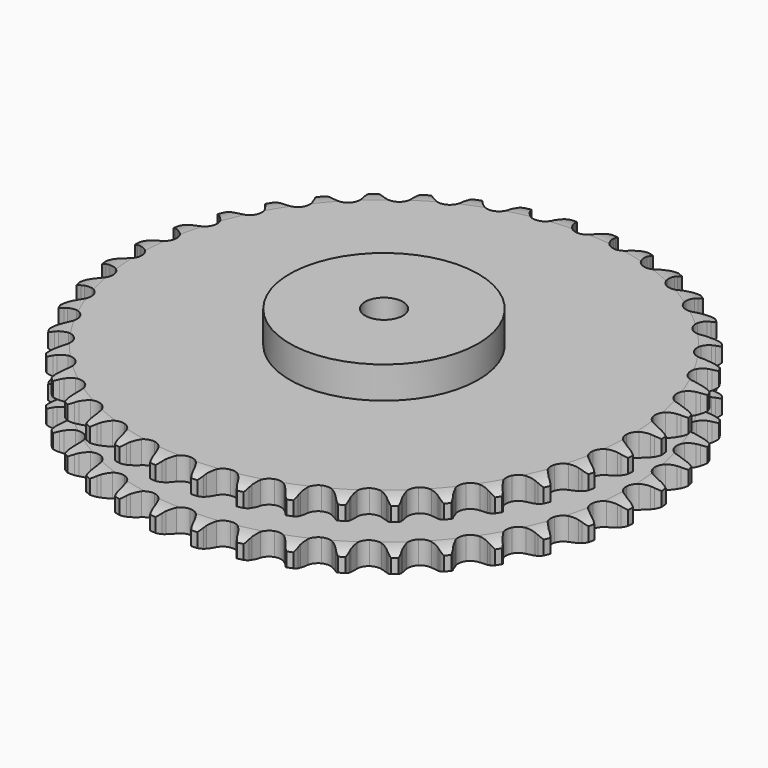
from build123d import *

# Parameters (mm, degrees)
PAD_DEPTH         = 54.6
SKETCH001_R       = 75
PAD001_DEPTH      = 80
SKETCH002_R       = 15
POCKET_DEPTH      = 0.001
POCKET_DEPTH_BACK = 80.001


with BuildPart() as part:
    # Sprocket → Pad (new body)
    with BuildSketch(Plane.XY):
        with BuildLine():
            ThreePointArc((-16.695089, 212.131225), (-13.928922, 209.128558), (-12.044786, 205.506719))
            Line((-12.044786, 205.506719), (-11.116063, 202.941151))
            ThreePointArc((-11.116063, 202.941151), (-9.650251, 199.656601), (-7.725647, 196.618052))
            ThreePointArc((-7.725647, 196.618052), (-4.325772, 193.752556), (0, 192.724006))
            ThreePointArc((0, 192.724006), (4.325772, 193.752556), (7.725647, 196.618052))
            ThreePointArc((7.725647, 196.618052), (9.650251, 199.656601), (11.116063, 202.941151))
            Line((11.116063, 202.941151), (12.044786, 205.506719))
            ThreePointArc((12.044786, 205.506719), (13.928922, 209.128558), (16.695089, 212.131225))
            ThreePointArc((16.695089, 212.131225), (18.95748, 208.732802), (20.251839, 204.86081))
            Line((20.251839, 204.86081), (20.767785, 202.181544))
            ThreePointArc((20.767785, 202.181544), (21.701733, 198.708129), (23.127308, 195.405915))
            ThreePointArc((23.127308, 195.405915), (26.037062, 192.04384), (30.148677, 190.351253))
            ThreePointArc((30.148677, 190.351253), (34.582092, 190.69044), (38.388372, 192.9888))
            Line((38.388372, 192.9888), (42.726196, 198.703674))
            ThreePointArc((42.726196, 198.703674), (43.352704, 199.916133), (44.044828, 201.092371))
            ThreePointArc((44.044828, 201.092371), (46.472348, 204.374875), (49.67418, 206.90785))
            ThreePointArc((49.67418, 206.90785), (51.377087, 203.197352), (52.049797, 199.170548))
            Line((52.049797, 199.170548), (52.14026, 196.443557))
            ThreePointArc((52.14026, 196.443557), (52.519348, 192.866803), (53.410792, 189.382236))
            ThreePointArc((53.410792, 189.382236), (55.758778, 185.606368), (59.554993, 183.291421))
            ThreePointArc((59.554993, 183.291421), (63.986886, 182.932893), (68.105847, 184.607524))
            Line((68.105847, 184.607524), (73.284269, 189.573452))
            ThreePointArc((73.284269, 189.573452), (74.092734, 190.672977), (74.96034, 191.726461))
            ThreePointArc((74.96034, 191.726461), (77.87147, 194.588805), (81.430127, 196.589718))
            ThreePointArc((81.430127, 196.589718), (82.531619, 192.658508), (82.566115, 188.576046))
            Line((82.566115, 188.576046), (82.22887, 185.868477))
            ThreePointArc((82.22887, 185.868477), (82.043763, 182.276456), (82.379126, 178.695338))
            ThreePointArc((82.379126, 178.695338), (84.107528, 174.598651), (87.494868, 171.718346))
            ThreePointArc((87.494868, 171.718346), (91.816111, 170.670932), (96.14633, 171.680597))
            Line((96.14633, 171.680597), (102.037839, 175.775303))
            ThreePointArc((102.037839, 175.775303), (103.008354, 176.734819), (104.030081, 177.639609))
            ThreePointArc((104.030081, 177.639609), (107.353139, 180.011312), (111.180995, 181.430894))
            ThreePointArc((111.180995, 181.430894), (111.653948, 177.375773), (111.049382, 173.338175))
            Line((111.049382, 173.338175), (110.292732, 170.716698))
            ThreePointArc((110.292732, 170.716698), (109.547988, 167.197858), (109.319012, 163.608367))
            ThreePointArc((109.319012, 163.608367), (110.385271, 159.291735), (113.280328, 155.916996))
            ThreePointArc((113.280328, 155.916996), (117.384518, 154.206485), (121.819371, 154.526324))
            Line((121.819371, 154.526324), (128.2789, 157.648982))
            ThreePointArc((128.2789, 157.648982), (129.387567, 158.444863), (130.538255, 159.178681))
            ThreePointArc((130.538255, 159.178681), (134.191417, 161.001343), (138.194217, 161.804639))
            ThreePointArc((138.194217, 161.804639), (138.026987, 157.725457), (136.798245, 153.832144))
            Line((136.798245, 153.832144), (135.640821, 151.361308))
            ThreePointArc((135.640821, 151.361308), (134.354778, 148.002294), (133.567101, 144.492816))
            ThreePointArc((133.567101, 144.492816), (133.944963, 140.062529), (136.276451, 136.276451))
            ThreePointArc((136.276451, 136.276451), (140.062529, 133.944963), (144.492816, 133.567101))
            Line((144.492816, 133.567101), (151.361308, 135.640821))
            ThreePointArc((151.361308, 135.640821), (152.580829, 136.253469), (153.832144, 136.798245))
            ThreePointArc((153.832144, 136.798245), (157.725457, 138.026987), (161.804639, 138.194217))
            ThreePointArc((161.804639, 138.194217), (161.001343, 134.191417), (159.178681, 130.538255))
            Line((159.178681, 130.538255), (157.648982, 128.2789))
            ThreePointArc((157.648982, 128.2789), (155.853308, 125.162423), (154.526324, 121.819371))
            ThreePointArc((154.526324, 121.819371), (154.206485, 117.384518), (155.916996, 113.280328))
            ThreePointArc((155.916996, 113.280328), (159.291735, 110.385271), (163.608367, 109.319012))
            Line((163.608367, 109.319012), (170.716698, 110.292732))
            ThreePointArc((170.716698, 110.292732), (172.017044, 110.707062), (173.338175, 111.049382))
            ThreePointArc((173.338175, 111.049382), (177.375773, 111.653948), (181.430894, 111.180995))
            ThreePointArc((181.430894, 111.180995), (180.011312, 107.353139), (177.639609, 104.030081))
            Line((177.639609, 104.030081), (175.775303, 102.037839))
            ThreePointArc((175.775303, 102.037839), (173.514212, 99.240637), (171.680597, 96.14633))
            ThreePointArc((171.680597, 96.14633), (170.670932, 91.816111), (171.718346, 87.494868))
            ThreePointArc((171.718346, 87.494868), (174.598651, 84.107528), (178.695338, 82.379126))
            Line((178.695338, 82.379126), (185.868477, 82.22887))
            ThreePointArc((185.868477, 82.22887), (187.217629, 82.434681), (188.576046, 82.566115))
            ThreePointArc((188.576046, 82.566115), (192.658508, 82.531619), (196.589718, 81.430127))
            ThreePointArc((196.589718, 81.430127), (194.588805, 77.87147), (191.726461, 74.96034))
            Line((191.726461, 74.96034), (189.573452, 73.284269))
            ThreePointArc((189.573452, 73.284269), (186.90262, 70.875217), (184.607524, 68.105847))
            ThreePointArc((184.607524, 68.105847), (182.932893, 63.986886), (183.291421, 59.554993))
            ThreePointArc((183.291421, 59.554993), (185.606368, 55.758778), (189.382236, 53.410792))
            Line((189.382236, 53.410792), (196.443557, 52.14026))
            ThreePointArc((196.443557, 52.14026), (197.808295, 52.132483), (199.170548, 52.049797))
            ThreePointArc((199.170548, 52.049797), (203.197352, 51.377087), (206.90785, 49.67418))
            ThreePointArc((206.90785, 49.67418), (204.374875, 46.472348), (201.092371, 44.044828))
            Line((201.092371, 44.044828), (198.703674, 42.726196))
            ThreePointArc((198.703674, 42.726196), (195.688865, 40.764614), (192.9888, 38.388372))
            ThreePointArc((192.9888, 38.388372), (190.69044, 34.582092), (190.351253, 30.148677))
            ThreePointArc((190.351253, 30.148677), (192.04384, 26.037062), (195.405915, 23.127308))
            Line((195.405915, 23.127308), (202.181544, 20.767785))
            ThreePointArc((202.181544, 20.767785), (203.528263, 20.546611), (204.86081, 20.251839))
            ThreePointArc((204.86081, 20.251839), (208.732802, 18.95748), (212.131225, 16.695089))
            ThreePointArc((212.131225, 16.695089), (209.128558, 13.928922), (205.506719, 12.044786))
            Line((205.506719, 12.044786), (202.941151, 11.116063))
            ThreePointArc((202.941151, 11.116063), (199.656601, 9.650251), (196.618052, 7.725647))
            ThreePointArc((196.618052, 7.725647), (193.752556, 4.325772), (192.724006, 0))
            ThreePointArc((192.724006, 0), (193.752556, -4.325772), (196.618052, -7.725647))
            Line((196.618052, -7.725647), (202.941151, -11.116063))
            ThreePointArc((202.941151, -11.116063), (204.236691, -11.545187), (205.506719, -12.044786))
            ThreePointArc((205.506719, -12.044786), (209.128558, -13.928922), (212.131225, -16.695089))
            ThreePointArc((212.131225, -16.695089), (208.732802, -18.95748), (204.86081, -20.251839))
            Line((204.86081, -20.251839), (202.181544, -20.767785))
            ThreePointArc((202.181544, -20.767785), (198.708129, -21.701733), (195.405915, -23.127308))
            ThreePointArc((195.405915, -23.127308), (192.04384, -26.037062), (190.351253, -30.148677))
            ThreePointArc((190.351253, -30.148677), (190.69044, -34.582092), (192.9888, -38.388372))
            Line((192.9888, -38.388372), (198.703674, -42.726196))
            ThreePointArc((198.703674, -42.726196), (199.916133, -43.352704), (201.092371, -44.044828))
            ThreePointArc((201.092371, -44.044828), (204.374875, -46.472348), (206.90785, -49.67418))
            ThreePointArc((206.90785, -49.67418), (203.197352, -51.377087), (199.170548, -52.049797))
            Line((199.170548, -52.049797), (196.443557, -52.14026))
            ThreePointArc((196.443557, -52.14026), (192.866803, -52.519348), (189.382236, -53.410792))
            ThreePointArc((189.382236, -53.410792), (185.606368, -55.758778), (183.291421, -59.554993))
            ThreePointArc((183.291421, -59.554993), (182.932893, -63.986886), (184.607524, -68.105847))
            Line((184.607524, -68.105847), (189.573452, -73.284269))
            ThreePointArc((189.573452, -73.284269), (190.672977, -74.092734), (191.726461, -74.96034))
            ThreePointArc((191.726461, -74.96034), (194.588805, -77.87147), (196.589718, -81.430127))
            ThreePointArc((196.589718, -81.430127), (192.658508, -82.531619), (188.576046, -82.566115))
            Line((188.576046, -82.566115), (185.868477, -82.22887))
            ThreePointArc((185.868477, -82.22887), (182.276456, -82.043763), (178.695338, -82.379126))
            ThreePointArc((178.695338, -82.379126), (174.598651, -84.107528), (171.718346, -87.494868))
            ThreePointArc((171.718346, -87.494868), (170.670932, -91.816111), (171.680597, -96.14633))
            Line((171.680597, -96.14633), (175.775303, -102.037839))
            ThreePointArc((175.775303, -102.037839), (176.734819, -103.008354), (177.639609, -104.030081))
            ThreePointArc((177.639609, -104.030081), (180.011312, -107.353139), (181.430894, -111.180995))
            ThreePointArc((181.430894, -111.180995), (177.375773, -111.653948), (173.338175, -111.049382))
            Line((173.338175, -111.049382), (170.716698, -110.292732))
            ThreePointArc((170.716698, -110.292732), (167.197858, -109.547988), (163.608367, -109.319012))
            ThreePointArc((163.608367, -109.319012), (159.291735, -110.385271), (155.916996, -113.280328))
            ThreePointArc((155.916996, -113.280328), (154.206485, -117.384518), (154.526324, -121.819371))
            Line((154.526324, -121.819371), (157.648982, -128.2789))
            ThreePointArc((157.648982, -128.2789), (158.444863, -129.387567), (159.178681, -130.538255))
            ThreePointArc((159.178681, -130.538255), (161.001343, -134.191417), (161.804639, -138.194217))
            ThreePointArc((161.804639, -138.194217), (157.725457, -138.026987), (153.832144, -136.798245))
            Line((153.832144, -136.798245), (151.361308, -135.640821))
            ThreePointArc((151.361308, -135.640821), (148.002294, -134.354778), (144.492816, -133.567101))
            ThreePointArc((144.492816, -133.567101), (140.062529, -133.944963), (136.276451, -136.276451))
            ThreePointArc((136.276451, -136.276451), (133.944963, -140.062529), (133.567101, -144.492816))
            Line((133.567101, -144.492816), (135.640821, -151.361308))
            ThreePointArc((135.640821, -151.361308), (136.253469, -152.580829), (136.798245, -153.832144))
            ThreePointArc((136.798245, -153.832144), (138.026987, -157.725457), (138.194217, -161.804639))
            ThreePointArc((138.194217, -161.804639), (134.191417, -161.001343), (130.538255, -159.178681))
            Line((130.538255, -159.178681), (128.2789, -157.648982))
            ThreePointArc((128.2789, -157.648982), (125.162423, -155.853308), (121.819371, -154.526324))
            ThreePointArc((121.819371, -154.526324), (117.384518, -154.206485), (113.280328, -155.916996))
            ThreePointArc((113.280328, -155.916996), (110.385271, -159.291735), (109.319012, -163.608367))
            Line((109.319012, -163.608367), (110.292732, -170.716698))
            ThreePointArc((110.292732, -170.716698), (110.707062, -172.017044), (111.049382, -173.338175))
            ThreePointArc((111.049382, -173.338175), (111.653948, -177.375773), (111.180995, -181.430894))
            ThreePointArc((111.180995, -181.430894), (107.353139, -180.011312), (104.030081, -177.639609))
            Line((104.030081, -177.639609), (102.037839, -175.775303))
            ThreePointArc((102.037839, -175.775303), (99.240637, -173.514212), (96.14633, -171.680597))
            ThreePointArc((96.14633, -171.680597), (91.816111, -170.670932), (87.494868, -171.718346))
            ThreePointArc((87.494868, -171.718346), (84.107528, -174.598651), (82.379126, -178.695338))
            Line((82.379126, -178.695338), (82.22887, -185.868477))
            ThreePointArc((82.22887, -185.868477), (82.434681, -187.217629), (82.566115, -188.576046))
            ThreePointArc((82.566115, -188.576046), (82.531619, -192.658508), (81.430127, -196.589718))
            ThreePointArc((81.430127, -196.589718), (77.87147, -194.588805), (74.96034, -191.726461))
            Line((74.96034, -191.726461), (73.284269, -189.573452))
            ThreePointArc((73.284269, -189.573452), (70.875217, -186.90262), (68.105847, -184.607524))
            ThreePointArc((68.105847, -184.607524), (63.986886, -182.932893), (59.554993, -183.291421))
            ThreePointArc((59.554993, -183.291421), (55.758778, -185.606368), (53.410792, -189.382236))
            Line((53.410792, -189.382236), (52.14026, -196.443557))
            ThreePointArc((52.14026, -196.443557), (52.132483, -197.808295), (52.049797, -199.170548))
            ThreePointArc((52.049797, -199.170548), (51.377087, -203.197352), (49.67418, -206.90785))
            ThreePointArc((49.67418, -206.90785), (46.472348, -204.374875), (44.044828, -201.092371))
            Line((44.044828, -201.092371), (42.726196, -198.703674))
            ThreePointArc((42.726196, -198.703674), (40.764614, -195.688865), (38.388372, -192.9888))
            ThreePointArc((38.388372, -192.9888), (34.582092, -190.69044), (30.148677, -190.351253))
            ThreePointArc((30.148677, -190.351253), (26.037062, -192.04384), (23.127308, -195.405915))
            Line((23.127308, -195.405915), (20.767785, -202.181544))
            ThreePointArc((20.767785, -202.181544), (20.546611, -203.528263), (20.251839, -204.86081))
            ThreePointArc((20.251839, -204.86081), (18.95748, -208.732802), (16.695089, -212.131225))
            ThreePointArc((16.695089, -212.131225), (13.928922, -209.128558), (12.044786, -205.506719))
            Line((12.044786, -205.506719), (11.116063, -202.941151))
            ThreePointArc((11.116063, -202.941151), (9.650251, -199.656601), (7.725647, -196.618052))
            ThreePointArc((7.725647, -196.618052), (4.325772, -193.752556), (0, -192.724006))
            ThreePointArc((0, -192.724006), (-4.325772, -193.752556), (-7.725647, -196.618052))
            Line((-7.725647, -196.618052), (-11.116063, -202.941151))
            ThreePointArc((-11.116063, -202.941151), (-11.545187, -204.236691), (-12.044786, -205.506719))
            ThreePointArc((-12.044786, -205.506719), (-13.928922, -209.128558), (-16.695089, -212.131225))
            ThreePointArc((-16.695089, -212.131225), (-18.95748, -208.732802), (-20.251839, -204.86081))
            Line((-20.251839, -204.86081), (-20.767785, -202.181544))
            ThreePointArc((-20.767785, -202.181544), (-21.701733, -198.708129), (-23.127308, -195.405915))
            ThreePointArc((-23.127308, -195.405915), (-26.037062, -192.04384), (-30.148677, -190.351253))
            ThreePointArc((-30.148677, -190.351253), (-34.582092, -190.69044), (-38.388372, -192.9888))
            Line((-38.388372, -192.9888), (-42.726196, -198.703674))
            ThreePointArc((-42.726196, -198.703674), (-43.352704, -199.916133), (-44.044828, -201.092371))
            ThreePointArc((-44.044828, -201.092371), (-46.472348, -204.374875), (-49.67418, -206.90785))
            ThreePointArc((-49.67418, -206.90785), (-51.377087, -203.197352), (-52.049797, -199.170548))
            Line((-52.049797, -199.170548), (-52.14026, -196.443557))
            ThreePointArc((-52.14026, -196.443557), (-52.519348, -192.866803), (-53.410792, -189.382236))
            ThreePointArc((-53.410792, -189.382236), (-55.758778, -185.606368), (-59.554993, -183.291421))
            ThreePointArc((-59.554993, -183.291421), (-63.986886, -182.932893), (-68.105847, -184.607524))
            Line((-68.105847, -184.607524), (-73.284269, -189.573452))
            ThreePointArc((-73.284269, -189.573452), (-74.092734, -190.672977), (-74.96034, -191.726461))
            ThreePointArc((-74.96034, -191.726461), (-77.87147, -194.588805), (-81.430127, -196.589718))
            ThreePointArc((-81.430127, -196.589718), (-82.531619, -192.658508), (-82.566115, -188.576046))
            Line((-82.566115, -188.576046), (-82.22887, -185.868477))
            ThreePointArc((-82.22887, -185.868477), (-82.043763, -182.276456), (-82.379126, -178.695338))
            ThreePointArc((-82.379126, -178.695338), (-84.107528, -174.598651), (-87.494868, -171.718346))
            ThreePointArc((-87.494868, -171.718346), (-91.816111, -170.670932), (-96.14633, -171.680597))
            Line((-96.14633, -171.680597), (-102.037839, -175.775303))
            ThreePointArc((-102.037839, -175.775303), (-103.008354, -176.734819), (-104.030081, -177.639609))
            ThreePointArc((-104.030081, -177.639609), (-107.353139, -180.011312), (-111.180995, -181.430894))
            ThreePointArc((-111.180995, -181.430894), (-111.653948, -177.375773), (-111.049382, -173.338175))
            Line((-111.049382, -173.338175), (-110.292732, -170.716698))
            ThreePointArc((-110.292732, -170.716698), (-109.547988, -167.197858), (-109.319012, -163.608367))
            ThreePointArc((-109.319012, -163.608367), (-110.385271, -159.291735), (-113.280328, -155.916996))
            ThreePointArc((-113.280328, -155.916996), (-117.384518, -154.206485), (-121.819371, -154.526324))
            Line((-121.819371, -154.526324), (-128.2789, -157.648982))
            ThreePointArc((-128.2789, -157.648982), (-129.387567, -158.444863), (-130.538255, -159.178681))
            ThreePointArc((-130.538255, -159.178681), (-134.191417, -161.001343), (-138.194217, -161.804639))
            ThreePointArc((-138.194217, -161.804639), (-138.026987, -157.725457), (-136.798245, -153.832144))
            Line((-136.798245, -153.832144), (-135.640821, -151.361308))
            ThreePointArc((-135.640821, -151.361308), (-134.354778, -148.002294), (-133.567101, -144.492816))
            ThreePointArc((-133.567101, -144.492816), (-133.944963, -140.062529), (-136.276451, -136.276451))
            ThreePointArc((-136.276451, -136.276451), (-140.062529, -133.944963), (-144.492816, -133.567101))
            Line((-144.492816, -133.567101), (-151.361308, -135.640821))
            ThreePointArc((-151.361308, -135.640821), (-152.580829, -136.253469), (-153.832144, -136.798245))
            ThreePointArc((-153.832144, -136.798245), (-157.725457, -138.026987), (-161.804639, -138.194217))
            ThreePointArc((-161.804639, -138.194217), (-161.001343, -134.191417), (-159.178681, -130.538255))
            Line((-159.178681, -130.538255), (-157.648982, -128.2789))
            ThreePointArc((-157.648982, -128.2789), (-155.853308, -125.162423), (-154.526324, -121.819371))
            ThreePointArc((-154.526324, -121.819371), (-154.206485, -117.384518), (-155.916996, -113.280328))
            ThreePointArc((-155.916996, -113.280328), (-159.291735, -110.385271), (-163.608367, -109.319012))
            Line((-163.608367, -109.319012), (-170.716698, -110.292732))
            ThreePointArc((-170.716698, -110.292732), (-172.017044, -110.707062), (-173.338175, -111.049382))
            ThreePointArc((-173.338175, -111.049382), (-177.375773, -111.653948), (-181.430894, -111.180995))
            ThreePointArc((-181.430894, -111.180995), (-180.011312, -107.353139), (-177.639609, -104.030081))
            Line((-177.639609, -104.030081), (-175.775303, -102.037839))
            ThreePointArc((-175.775303, -102.037839), (-173.514212, -99.240637), (-171.680597, -96.14633))
            ThreePointArc((-171.680597, -96.14633), (-170.670932, -91.816111), (-171.718346, -87.494868))
            ThreePointArc((-171.718346, -87.494868), (-174.598651, -84.107528), (-178.695338, -82.379126))
            Line((-178.695338, -82.379126), (-185.868477, -82.22887))
            ThreePointArc((-185.868477, -82.22887), (-187.217629, -82.434681), (-188.576046, -82.566115))
            ThreePointArc((-188.576046, -82.566115), (-192.658508, -82.531619), (-196.589718, -81.430127))
            ThreePointArc((-196.589718, -81.430127), (-194.588805, -77.87147), (-191.726461, -74.96034))
            Line((-191.726461, -74.96034), (-189.573452, -73.284269))
            ThreePointArc((-189.573452, -73.284269), (-186.90262, -70.875217), (-184.607524, -68.105847))
            ThreePointArc((-184.607524, -68.105847), (-182.932893, -63.986886), (-183.291421, -59.554993))
            ThreePointArc((-183.291421, -59.554993), (-185.606368, -55.758778), (-189.382236, -53.410792))
            Line((-189.382236, -53.410792), (-196.443557, -52.14026))
            ThreePointArc((-196.443557, -52.14026), (-197.808295, -52.132483), (-199.170548, -52.049797))
            ThreePointArc((-199.170548, -52.049797), (-203.197352, -51.377087), (-206.90785, -49.67418))
            ThreePointArc((-206.90785, -49.67418), (-204.374875, -46.472348), (-201.092371, -44.044828))
            Line((-201.092371, -44.044828), (-198.703674, -42.726196))
            ThreePointArc((-198.703674, -42.726196), (-195.688865, -40.764614), (-192.9888, -38.388372))
            ThreePointArc((-192.9888, -38.388372), (-190.69044, -34.582092), (-190.351253, -30.148677))
            ThreePointArc((-190.351253, -30.148677), (-192.04384, -26.037062), (-195.405915, -23.127308))
            Line((-195.405915, -23.127308), (-202.181544, -20.767785))
            ThreePointArc((-202.181544, -20.767785), (-203.528263, -20.546611), (-204.86081, -20.251839))
            ThreePointArc((-204.86081, -20.251839), (-208.732802, -18.95748), (-212.131225, -16.695089))
            ThreePointArc((-212.131225, -16.695089), (-209.128558, -13.928922), (-205.506719, -12.044786))
            Line((-205.506719, -12.044786), (-202.941151, -11.116063))
            ThreePointArc((-202.941151, -11.116063), (-199.656601, -9.650251), (-196.618052, -7.725647))
            ThreePointArc((-196.618052, -7.725647), (-193.752556, -4.325772), (-192.724006, 0))
            ThreePointArc((-192.724006, 0), (-193.752556, 4.325772), (-196.618052, 7.725647))
            Line((-196.618052, 7.725647), (-202.941151, 11.116063))
            ThreePointArc((-202.941151, 11.116063), (-204.236691, 11.545187), (-205.506719, 12.044786))
            ThreePointArc((-205.506719, 12.044786), (-209.128558, 13.928922), (-212.131225, 16.695089))
            ThreePointArc((-212.131225, 16.695089), (-208.732802, 18.95748), (-204.86081, 20.251839))
            Line((-204.86081, 20.251839), (-202.181544, 20.767785))
            ThreePointArc((-202.181544, 20.767785), (-198.708129, 21.701733), (-195.405915, 23.127308))
            ThreePointArc((-195.405915, 23.127308), (-192.04384, 26.037062), (-190.351253, 30.148677))
            ThreePointArc((-190.351253, 30.148677), (-190.69044, 34.582092), (-192.9888, 38.388372))
            Line((-192.9888, 38.388372), (-198.703674, 42.726196))
            ThreePointArc((-198.703674, 42.726196), (-199.916133, 43.352704), (-201.092371, 44.044828))
            ThreePointArc((-201.092371, 44.044828), (-204.374875, 46.472348), (-206.90785, 49.67418))
            ThreePointArc((-206.90785, 49.67418), (-203.197352, 51.377087), (-199.170548, 52.049797))
            Line((-199.170548, 52.049797), (-196.443557, 52.14026))
            ThreePointArc((-196.443557, 52.14026), (-192.866803, 52.519348), (-189.382236, 53.410792))
            ThreePointArc((-189.382236, 53.410792), (-185.606368, 55.758778), (-183.291421, 59.554993))
            ThreePointArc((-183.291421, 59.554993), (-182.932893, 63.986886), (-184.607524, 68.105847))
            Line((-184.607524, 68.105847), (-189.573452, 73.284269))
            ThreePointArc((-189.573452, 73.284269), (-190.672977, 74.092734), (-191.726461, 74.96034))
            ThreePointArc((-191.726461, 74.96034), (-194.588805, 77.87147), (-196.589718, 81.430127))
            ThreePointArc((-196.589718, 81.430127), (-192.658508, 82.531619), (-188.576046, 82.566115))
            Line((-188.576046, 82.566115), (-185.868477, 82.22887))
            ThreePointArc((-185.868477, 82.22887), (-182.276456, 82.043763), (-178.695338, 82.379126))
            ThreePointArc((-178.695338, 82.379126), (-174.598651, 84.107528), (-171.718346, 87.494868))
            ThreePointArc((-171.718346, 87.494868), (-170.670932, 91.816111), (-171.680597, 96.14633))
            Line((-171.680597, 96.14633), (-175.775303, 102.037839))
            ThreePointArc((-175.775303, 102.037839), (-176.734819, 103.008354), (-177.639609, 104.030081))
            ThreePointArc((-177.639609, 104.030081), (-180.011312, 107.353139), (-181.430894, 111.180995))
            ThreePointArc((-181.430894, 111.180995), (-177.375773, 111.653948), (-173.338175, 111.049382))
            Line((-173.338175, 111.049382), (-170.716698, 110.292732))
            ThreePointArc((-170.716698, 110.292732), (-167.197858, 109.547988), (-163.608367, 109.319012))
            ThreePointArc((-163.608367, 109.319012), (-159.291735, 110.385271), (-155.916996, 113.280328))
            ThreePointArc((-155.916996, 113.280328), (-154.206485, 117.384518), (-154.526324, 121.819371))
            Line((-154.526324, 121.819371), (-157.648982, 128.2789))
            ThreePointArc((-157.648982, 128.2789), (-158.444863, 129.387567), (-159.178681, 130.538255))
            ThreePointArc((-159.178681, 130.538255), (-161.001343, 134.191417), (-161.804639, 138.194217))
            ThreePointArc((-161.804639, 138.194217), (-157.725457, 138.026987), (-153.832144, 136.798245))
            Line((-153.832144, 136.798245), (-151.361308, 135.640821))
            ThreePointArc((-151.361308, 135.640821), (-148.002294, 134.354778), (-144.492816, 133.567101))
            ThreePointArc((-144.492816, 133.567101), (-140.062529, 133.944963), (-136.276451, 136.276451))
            ThreePointArc((-136.276451, 136.276451), (-133.944963, 140.062529), (-133.567101, 144.492816))
            Line((-133.567101, 144.492816), (-135.640821, 151.361308))
            ThreePointArc((-135.640821, 151.361308), (-136.253469, 152.580829), (-136.798245, 153.832144))
            ThreePointArc((-136.798245, 153.832144), (-138.026987, 157.725457), (-138.194217, 161.804639))
            ThreePointArc((-138.194217, 161.804639), (-134.191417, 161.001343), (-130.538255, 159.178681))
            Line((-130.538255, 159.178681), (-128.2789, 157.648982))
            ThreePointArc((-128.2789, 157.648982), (-125.162423, 155.853308), (-121.819371, 154.526324))
            ThreePointArc((-121.819371, 154.526324), (-117.384518, 154.206485), (-113.280328, 155.916996))
            ThreePointArc((-113.280328, 155.916996), (-110.385271, 159.291735), (-109.319012, 163.608367))
            Line((-109.319012, 163.608367), (-110.292732, 170.716698))
            ThreePointArc((-110.292732, 170.716698), (-110.707062, 172.017044), (-111.049382, 173.338175))
            ThreePointArc((-111.049382, 173.338175), (-111.653948, 177.375773), (-111.180995, 181.430894))
            ThreePointArc((-111.180995, 181.430894), (-107.353139, 180.011312), (-104.030081, 177.639609))
            Line((-104.030081, 177.639609), (-102.037839, 175.775303))
            ThreePointArc((-102.037839, 175.775303), (-99.240637, 173.514212), (-96.14633, 171.680597))
            ThreePointArc((-96.14633, 171.680597), (-91.816111, 170.670932), (-87.494868, 171.718346))
            ThreePointArc((-87.494868, 171.718346), (-84.107528, 174.598651), (-82.379126, 178.695338))
            Line((-82.379126, 178.695338), (-82.22887, 185.868477))
            ThreePointArc((-82.22887, 185.868477), (-82.434681, 187.217629), (-82.566115, 188.576046))
            ThreePointArc((-82.566115, 188.576046), (-82.531619, 192.658508), (-81.430127, 196.589718))
            ThreePointArc((-81.430127, 196.589718), (-77.87147, 194.588805), (-74.96034, 191.726461))
            Line((-74.96034, 191.726461), (-73.284269, 189.573452))
            ThreePointArc((-73.284269, 189.573452), (-70.875217, 186.90262), (-68.105847, 184.607524))
            ThreePointArc((-68.105847, 184.607524), (-63.986886, 182.932893), (-59.554993, 183.291421))
            ThreePointArc((-59.554993, 183.291421), (-55.758778, 185.606368), (-53.410792, 189.382236))
            Line((-53.410792, 189.382236), (-52.14026, 196.443557))
            ThreePointArc((-52.14026, 196.443557), (-52.132483, 197.808295), (-52.049797, 199.170548))
            ThreePointArc((-52.049797, 199.170548), (-51.377087, 203.197352), (-49.67418, 206.90785))
            ThreePointArc((-49.67418, 206.90785), (-46.472348, 204.374875), (-44.044828, 201.092371))
            Line((-44.044828, 201.092371), (-42.726196, 198.703674))
            ThreePointArc((-42.726196, 198.703674), (-40.764614, 195.688865), (-38.388372, 192.9888))
            ThreePointArc((-38.388372, 192.9888), (-34.582092, 190.69044), (-30.148677, 190.351253))
            ThreePointArc((-30.148677, 190.351253), (-26.037062, 192.04384), (-23.127308, 195.405915))
            Line((-23.127308, 195.405915), (-20.767785, 202.181544))
            ThreePointArc((-20.767785, 202.181544), (-20.546611, 203.528263), (-20.251839, 204.86081))
            ThreePointArc((-20.251839, 204.86081), (-18.95748, 208.732802), (-16.695089, 212.131225))
        make_face()
    extrude(amount=PAD_DEPTH)

    # Sketch → Groove (revolve, cut)
    with BuildSketch(Plane.XZ):
        with BuildLine():
            ThreePointArc((195.348368, 0), (202.831683, 0.887302), (209.9, 3.5))
            Line((209.9, 3.5), (209.9, 14.7))
            ThreePointArc((209.9, 14.7), (202.831683, 17.312698), (195.348368, 18.2))
            Line((75, 18.2), (195.348368, 18.2))
            Line((75, 36.4), (75, 18.2))
            Line((195.348368, 36.4), (75, 36.4))
            ThreePointArc((195.348368, 36.4), (202.831683, 37.287302), (209.9, 39.9))
            Line((209.9, 39.9), (209.9, 51.1))
            ThreePointArc((209.9, 51.1), (202.831683, 53.712698), (195.348368, 54.6))
            Line((195.348368, 54.6), (219.9, 54.6))
            Line((219.9, 54.6), (219.9, 0))
            Line((195.348368, 0), (219.9, 0))
        make_face()
    revolve(axis=Axis((0, 0, 0), (0, 0, 1)), mode=Mode.SUBTRACT)

    # Sketch001 → Pad001 (join)
    with BuildSketch(Plane.XY):
        Circle(SKETCH001_R)
    extrude(amount=PAD001_DEPTH)

    # Sketch002 → Pocket (cut, two sides)
    with BuildSketch(Plane.XY) as pocket_sk:
        Circle(SKETCH002_R)
    extrude(amount=-POCKET_DEPTH, mode=Mode.SUBTRACT)
    extrude(pocket_sk.sketch, amount=POCKET_DEPTH_BACK, mode=Mode.SUBTRACT)


solid = part.part
